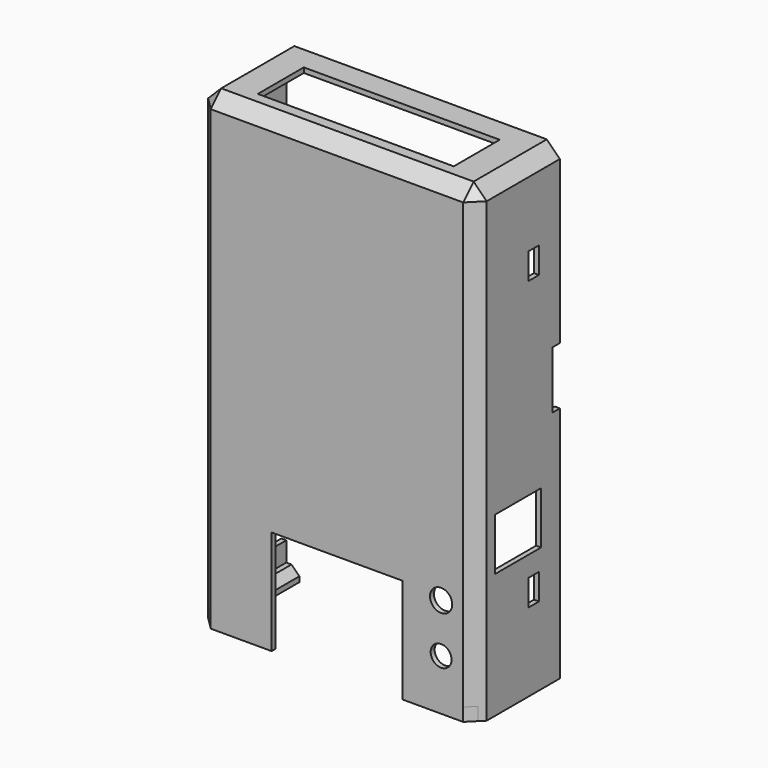
from build123d import *

# Parameters (mm, degrees)
SKETCH_W        = 106.6
SKETCH_H        = 40
PAD_DEPTH       = 180
SKETCH001_W     = 102.8
SKETCH001_H     = 176.2
POCKET_DEPTH    = 38.1
SKETCH002_W     = 102.8
SKETCH002_H     = 1.9
POCKET001_DEPTH = 38.1
SKETCH003_W     = 50
SKETCH003_H     = 40
POCKET002_DEPTH = 5
SKETCH004_W     = 22
SKETCH004_H     = 20
POCKET003_DEPTH = 5
SKETCH005_W     = 75
SKETCH005_H     = 22
POCKET004_DEPTH = 5
SKETCH006_R     = 4
SKETCH006_R_2   = 4.25
POCKET005_DEPTH = 5
CHAMFER_SIZE    = 5
CHAMFER001_SIZE = 5
SKETCH007_W     = 5
SKETCH007_H     = 10
POCKET006_DEPTH = 5
SKETCH008_W     = 5
SKETCH008_H     = 10
POCKET007_DEPTH = 5
SKETCH009_W     = 19.8
SKETCH009_H     = 10
POCKET008_DEPTH = 5
SKETCH010_W     = 40
SKETCH010_H     = 5
PAD001_DEPTH    = 5
CHAMFER002_SIZE = 3.099
CHAMFER003_SIZE = 3
SKETCH011_W     = 40
SKETCH011_H     = 5
PAD002_DEPTH    = 5
CHAMFER004_SIZE = 3.099
CHAMFER005_SIZE = 3
SKETCH012_W     = 3.5
SKETCH012_H     = 22
POCKET009_DEPTH = 5
SKETCH013_W     = 3.5
SKETCH013_H     = 22
POCKET010_DEPTH = 5


with BuildPart() as part:
    # Sketch → Pad (new body)
    with BuildSketch(Plane.XY):
        Rectangle(SKETCH_W, SKETCH_H)
    extrude(amount=PAD_DEPTH)

    # Sketch001 (on Face1 of Pad) → Pocket (cut)
    with BuildSketch(Plane(origin=(0, 20, 0), x_dir=(-1, 0, 0), z_dir=(0, 1, 0))):
        with Locations((0, 90)):
            Rectangle(SKETCH001_W, SKETCH001_H)
    extrude(amount=-POCKET_DEPTH, mode=Mode.SUBTRACT)

    # Sketch002 (on Face1 of Pocket) → Pocket001 (cut)
    with BuildSketch(Plane(origin=(0, 20, 0), x_dir=(-1, 0, 0), z_dir=(0, 1, 0))):
        with Locations((0, 0.95)):
            Rectangle(SKETCH002_W, SKETCH002_H)
    extrude(amount=-POCKET001_DEPTH, mode=Mode.SUBTRACT)

    # Sketch003 (on Face11 of Pocket001) → Pocket002 (cut)
    with BuildSketch(Plane.XZ.offset(20)):
        with Locations((0, 20)):
            Rectangle(SKETCH003_W, SKETCH003_H)
    extrude(amount=-POCKET002_DEPTH, mode=Mode.SUBTRACT)

    # Sketch004 (on Face9 of Pocket002) → Pocket003 (cut)
    with BuildSketch(Plane.YZ.offset(53.3)):
        with Locations((0, 57.78728)):
            Rectangle(SKETCH004_W, SKETCH004_H)
    extrude(amount=-POCKET003_DEPTH, mode=Mode.SUBTRACT)

    # Sketch005 (on Face10 of Pocket003) → Pocket004 (cut)
    with BuildSketch(Plane.XY.offset(180)):
        Rectangle(SKETCH005_W, SKETCH005_H)
    extrude(amount=-POCKET004_DEPTH, mode=Mode.SUBTRACT)

    # Sketch006 (on Face12 of Pocket004) → Pocket005 (cut)
    with BuildSketch(Plane.XZ.offset(20)):
        with Locations((39.85, 19.5)):
            Circle(SKETCH006_R)
        with Locations((39.85, 38.2)):
            Circle(SKETCH006_R_2)
    extrude(amount=-POCKET005_DEPTH, mode=Mode.SUBTRACT)

    # Chamfer
    chamfer_edges = [part.edges().sort_by_distance(p)[0] for p in [
        (-51.4, -18.1, 90),
        (-51.4, 0.95, 178.1),
        (0, -18.1, 178.1),
        (51.4, -18.1, 90),
        (51.4, 0.95, 178.1),
    ]]
    chamfer(chamfer_edges, length=CHAMFER_SIZE)

    # Chamfer001
    chamfer001_edges = [part.edges().sort_by_distance(p)[0] for p in [
        (53.3, -20, 90),
        (-53.3, -20, 90),
        (0, -20, 180),
        (53.3, 0, 180),
        (-53.3, 0, 180),
    ]]
    chamfer(chamfer001_edges, length=CHAMFER001_SIZE)

    # Sketch007 (on Face9 of Chamfer001) → Pocket006 (cut)
    with BuildSketch(Plane.YZ.offset(53.3)):
        with Locations((7.5, 145)):
            Rectangle(SKETCH007_W, SKETCH007_H)
        with Locations((7.5, 35)):
            Rectangle(SKETCH007_W, SKETCH007_H)
    extrude(amount=-POCKET006_DEPTH, mode=Mode.SUBTRACT)

    # Sketch008 (on Face2 of Pocket006) → Pocket007 (cut)
    with BuildSketch(Plane(origin=(-53.3, 0, 0), x_dir=(0, -1, 0), z_dir=(-1, 0, 0))):
        with Locations((-7.5, 145)):
            Rectangle(SKETCH008_W, SKETCH008_H)
        with Locations((-7.5, 35)):
            Rectangle(SKETCH008_W, SKETCH008_H)
    extrude(amount=-POCKET007_DEPTH, mode=Mode.SUBTRACT)

    # Sketch009 (on Face2 of Pocket007) → Pocket008 (cut)
    with BuildSketch(Plane(origin=(-53.3, 0, 0), x_dir=(0, -1, 0), z_dir=(-1, 0, 0))):
        with Locations((-10.1, 17.5)):
            Rectangle(SKETCH009_W, SKETCH009_H)
    extrude(amount=-POCKET008_DEPTH, mode=Mode.SUBTRACT)

    # Sketch010 (on Face4 of Pocket008) → Pad001 (join)
    with BuildSketch(Plane.YZ.offset(-51.4)):
        with Locations((0, 2.5)):
            Rectangle(SKETCH010_W, SKETCH010_H)
    extrude(amount=PAD001_DEPTH)

    # Chamfer002
    chamfer002_edges = [part.edges().sort_by_distance(p)[0] for p in [
        (-51.4, -20, 2.5),
    ]]
    chamfer(chamfer002_edges, length=CHAMFER002_SIZE)

    # Chamfer003
    chamfer003_edges = [part.edges().sort_by_distance(p)[0] for p in [
        (-46.4, 0.95, 5),
    ]]
    chamfer(chamfer003_edges, length=CHAMFER003_SIZE)

    # Sketch011 (on Face27 of Chamfer003) → Pad002 (join)
    with BuildSketch(Plane(origin=(51.4, 0, 0), x_dir=(0, -1, 0), z_dir=(-1, 0, 0))):
        with Locations((0, 2.5)):
            Rectangle(SKETCH011_W, SKETCH011_H)
    extrude(amount=PAD002_DEPTH)

    # Chamfer004
    chamfer004_edges = [part.edges().sort_by_distance(p)[0] for p in [
        (51.4, -20, 2.5),
    ]]
    chamfer(chamfer004_edges, length=CHAMFER004_SIZE)

    # Chamfer005
    chamfer005_edges = [part.edges().sort_by_distance(p)[0] for p in [
        (46.4, 0.95, 5),
    ]]
    chamfer(chamfer005_edges, length=CHAMFER005_SIZE)

    # Sketch012 (on Face15 of Chamfer005) → Pocket009 (cut)
    with BuildSketch(Plane.YZ.offset(53.3)):
        with Locations((18.25, 102)):
            Rectangle(SKETCH012_W, SKETCH012_H)
    extrude(amount=-POCKET009_DEPTH, mode=Mode.SUBTRACT)

    # Sketch013 (on Face52 of Pocket009) → Pocket010 (cut)
    with BuildSketch(Plane(origin=(-53.3, 0, 0), x_dir=(0, -1, 0), z_dir=(-1, 0, 0))):
        with Locations((-18.25, 102)):
            Rectangle(SKETCH013_W, SKETCH013_H)
    extrude(amount=-POCKET010_DEPTH, mode=Mode.SUBTRACT)


solid = part.part
